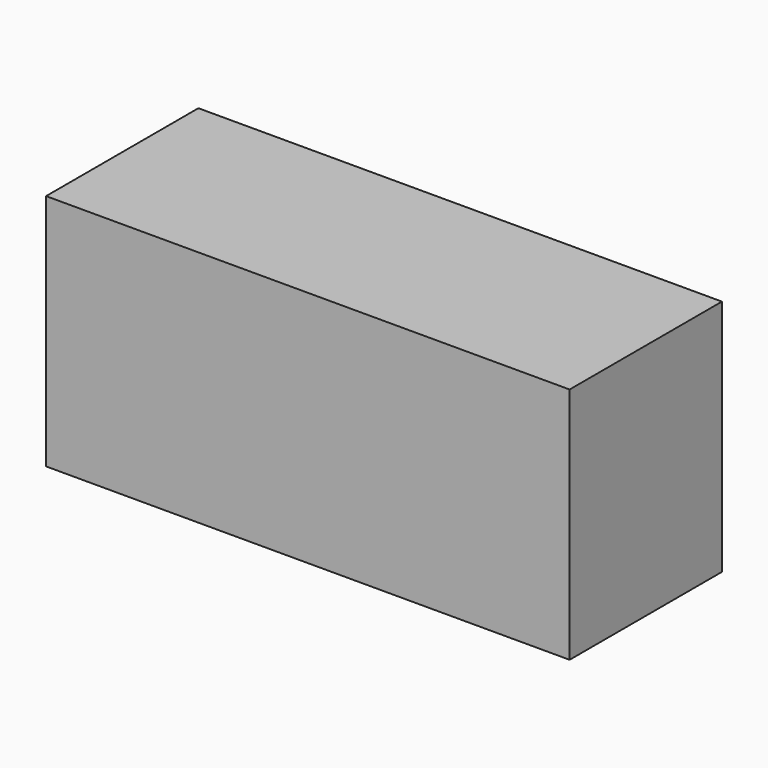
from build123d import *

# Parameters (mm, degrees)
SKETCH_W      = 110
SKETCH_H      = 40
EXTRUDE_DEPTH = 50


with BuildPart() as part:
    # Sketch → Extrude (new body)
    with BuildSketch(Plane.XY):
        Rectangle(SKETCH_W, SKETCH_H)
    extrude(amount=EXTRUDE_DEPTH)


solid = part.part
